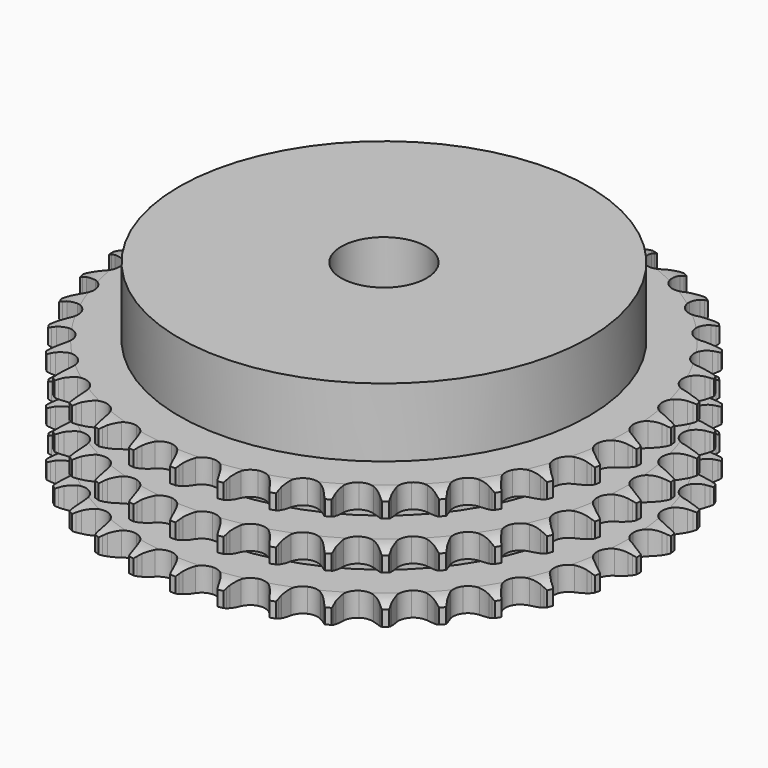
from build123d import *

# Parameters (mm, degrees)
PAD_DEPTH         = 34.9
SKETCH001_R       = 60
PAD001_DEPTH      = 55
SKETCH002_R       = 12.5
POCKET_DEPTH      = 0.001
POCKET_DEPTH_BACK = 55.001


with BuildPart() as part:
    # Sprocket → Pad (new body)
    with BuildSketch(Plane.XY):
        with BuildLine():
            ThreePointArc((-6.673059, 78.402771), (-5.93416, 77.380789), (-5.393637, 76.241379))
            Line((-5.393637, 76.241379), (-4.978563, 75.109289))
            ThreePointArc((-4.978563, 75.109289), (-4.321728, 73.651627), (-3.462685, 72.3032))
            ThreePointArc((-3.462685, 72.3032), (-1.937803, 71.022139), (0, 70.562469))
            ThreePointArc((0, 70.562469), (1.937803, 71.022139), (3.462685, 72.3032))
            ThreePointArc((3.462685, 72.3032), (4.321728, 73.651627), (4.978563, 75.109289))
            Line((4.978563, 75.109289), (5.393637, 76.241379))
            ThreePointArc((5.393637, 76.241379), (5.93416, 77.380789), (6.673059, 78.402771))
            ThreePointArc((6.673059, 78.402771), (7.228614, 77.270614), (7.568801, 76.056245))
            Line((7.568801, 76.056245), (7.78658, 74.870292))
            ThreePointArc((7.78658, 74.870292), (8.187622, 73.322591), (8.806423, 71.848381))
            ThreePointArc((8.806423, 71.848381), (10.09287, 70.328041), (11.925115, 69.547492))
            ThreePointArc((11.925115, 69.547492), (13.91273, 69.67306), (15.632177, 70.677987))
            Line((15.632177, 70.677987), (17.600483, 73.187529))
            ThreePointArc((17.600483, 73.187529), (17.886516, 73.718501), (18.20091, 74.233187))
            ThreePointArc((18.20091, 74.233187), (18.926219, 75.264859), (19.827206, 76.147266))
            ThreePointArc((19.827206, 76.147266), (20.183434, 74.937505), (20.313499, 73.683112))
            Line((20.313499, 73.683112), (20.327718, 72.477412))
            ThreePointArc((20.327718, 72.477412), (20.461428, 70.884198), (20.822186, 69.326614))
            ThreePointArc((20.822186, 69.326614), (21.83319, 67.610733), (23.507167, 66.531761))
            ThreePointArc((23.507167, 66.531761), (25.487412, 66.319614), (27.35196, 67.019498))
            Line((27.35196, 67.019498), (29.716068, 69.160297))
            ThreePointArc((29.716068, 69.160297), (30.087722, 69.635291), (30.484576, 70.089442))
            ThreePointArc((30.484576, 70.089442), (31.373806, 70.983696), (32.41096, 71.701143))
            ThreePointArc((32.41096, 71.701143), (32.557614, 70.448581), (32.473814, 69.190249))
            Line((32.473814, 69.190249), (32.284064, 67.99949))
            ThreePointArc((32.284064, 67.99949), (32.146597, 66.406595), (32.238932, 64.810448))
            ThreePointArc((32.238932, 64.810448), (32.945409, 62.948387), (34.412959, 61.602032))
            ThreePointArc((34.412959, 61.602032), (36.328868, 61.058273), (38.284878, 61.43298))
            Line((38.284878, 61.43298), (40.976777, 63.143449))
            ThreePointArc((40.976777, 63.143449), (41.423359, 63.548801), (41.891256, 63.929351))
            ThreePointArc((41.891256, 63.929351), (42.918825, 64.660461), (44.06231, 65.192308))
            ThreePointArc((44.06231, 65.192308), (43.99517, 63.932978), (43.699917, 62.706909))
            Line((43.699917, 62.706909), (43.311657, 61.565345))
            ThreePointArc((43.311657, 61.565345), (42.906966, 60.018595), (42.728223, 58.429802))
            ThreePointArc((42.728223, 58.429802), (43.109848, 56.475131), (44.328754, 54.900124))
            ThreePointArc((44.328754, 54.900124), (46.125209, 54.040397), (48.116408, 54.079147))
            Line((48.116408, 54.079147), (51.058658, 55.310079))
            ThreePointArc((51.058658, 55.310079), (51.567321, 55.634128), (52.092801, 55.930128))
            ThreePointArc((52.092801, 55.930128), (53.229148, 56.477062), (54.446067, 56.80801))
            ThreePointArc((54.446067, 56.80801), (54.167066, 55.578141), (53.668852, 54.419606))
            Line((53.668852, 54.419606), (53.093252, 53.360078))
            ThreePointArc((53.093252, 53.360078), (52.43298, 51.90397), (51.988301, 50.368238))
            ThreePointArc((51.988301, 50.368238), (52.034095, 48.377188), (52.969291, 46.61884))
            ThreePointArc((52.969291, 46.61884), (54.594611, 45.467877), (56.563718, 45.169555))
            Line((56.563718, 45.169555), (59.671674, 45.885539))
            ThreePointArc((59.671674, 45.885539), (60.227785, 46.118962), (60.795731, 46.321898))
            ThreePointArc((60.795731, 46.321898), (62.008165, 46.668922), (63.263511, 46.789448))
            ThreePointArc((63.263511, 46.789448), (62.780673, 45.624421), (62.093833, 44.566749))
            Line((62.093833, 44.566749), (61.347451, 43.619739))
            ThreePointArc((61.347451, 43.619739), (60.450593, 42.296162), (59.75277, 40.857671))
            ThreePointArc((59.75277, 40.857671), (59.461417, 38.887521), (60.085999, 36.996417))
            ThreePointArc((60.085999, 36.996417), (61.493426, 35.587329), (63.383792, 34.960517))
            Line((63.383792, 34.960517), (66.568045, 35.140956))
            ThreePointArc((66.568045, 35.140956), (67.155606, 35.277038), (67.749679, 35.381071))
            ThreePointArc((67.749679, 35.381071), (69.00332, 35.518201), (70.260978, 35.42484))
            ThreePointArc((70.260978, 35.42484), (69.588195, 34.35817), (68.732487, 33.431788))
            Line((68.732487, 33.431788), (67.836796, 32.624539))
            ThreePointArc((67.836796, 32.624539), (66.729152, 31.47157), (65.798261, 30.171703))
            ThreePointArc((65.798261, 30.171703), (65.178141, 28.279131), (65.474141, 26.309674))
            ThreePointArc((65.474141, 26.309674), (66.623186, 24.682998), (68.38043, 23.745729))
            Line((68.38043, 23.745729), (71.549375, 23.385431))
            ThreePointArc((71.549375, 23.385431), (72.151482, 23.420257), (72.754591, 23.422396))
            ThreePointArc((72.754591, 23.422396), (74.013375, 23.345686), (75.237164, 23.041123))
            ThreePointArc((75.237164, 23.041123), (74.393791, 22.103497), (73.393832, 21.335056))
            Line((73.393832, 21.335056), (72.374599, 20.690791))
            ThreePointArc((72.374599, 20.690791), (71.088036, 19.741599), (69.950856, 18.617751))
            ThreePointArc((69.950856, 18.617751), (69.019809, 16.857202), (68.978712, 14.86605))
            ThreePointArc((68.978712, 14.86605), (69.836319, 13.068583), (71.409888, 11.84782))
            Line((71.409888, 11.84782), (74.472359, 10.95715))
            ThreePointArc((74.472359, 10.95715), (75.071691, 10.889719), (75.666487, 10.7899))
            ThreePointArc((75.666487, 10.7899), (76.8942, 10.501559), (78.048915, 9.994555))
            ThreePointArc((78.048915, 9.994555), (77.059213, 9.212947), (75.943771, 8.624553))
            Line((75.943771, 8.624553), (74.830317, 8.161806))
            ThreePointArc((74.830317, 8.161806), (73.401845, 7.443697), (72.091092, 6.528199))
            ThreePointArc((72.091092, 6.528199), (70.875903, 4.950322), (70.49889, 2.994756))
            ThreePointArc((70.49889, 2.994756), (71.040389, 1.078208), (72.385013, -0.39093))
            Line((72.385013, -0.39093), (75.252909, -1.786349))
            ThreePointArc((75.252909, -1.786349), (75.832225, -1.954097), (76.401595, -2.153001))
            ThreePointArc((76.401595, -2.153001), (77.562919, -2.644679), (78.61534, -3.339539))
            ThreePointArc((78.61534, -3.339539), (77.507782, -3.942643), (76.308945, -4.334063))
            Line((76.308945, -4.334063), (75.133303, -4.601979))
            ThreePointArc((75.133303, -4.601979), (73.604017, -5.068346), (72.157398, -5.749156))
            ThreePointArc((72.157398, -5.749156), (70.693027, -7.098969), (69.990944, -8.962691))
            ThreePointArc((69.990944, -8.962691), (70.200755, -10.943185), (71.277753, -12.618433))
            Line((71.277753, -12.618433), (73.86857, -14.478457))
            ThreePointArc((73.86857, -14.478457), (74.411203, -14.741698), (74.938769, -15.033964))
            ThreePointArc((74.938769, -15.033964), (76.000294, -15.714835), (76.920145, -16.577559))
            ThreePointArc((76.920145, -16.577559), (75.726593, -16.984811), (74.47885, -17.167996))
            Line((74.47885, -17.167996), (73.27484, -17.233374))
            ThreePointArc((73.27484, -17.233374), (71.688736, -17.434581), (70.147867, -17.861119))
            ThreePointArc((70.147867, -17.861119), (68.47644, -18.944037), (67.469486, -20.662298))
            ThreePointArc((67.469486, -20.662298), (67.341574, -22.649763), (68.119961, -24.482927))
            Line((68.119961, -24.482927), (70.359167, -26.754047))
            ThreePointArc((70.359167, -26.754047), (70.849507, -27.105206), (71.320091, -27.482428))
            ThreePointArc((71.320091, -27.482428), (72.251279, -28.332903), (73.012098, -29.338674))
            ThreePointArc((73.012098, -29.338674), (71.766888, -29.538356), (70.506134, -29.508037))
            Line((70.506134, -29.508037), (69.308394, -29.368995))
            ThreePointArc((69.308394, -29.368995), (67.7111, -29.299256), (66.12031, -29.459251))
            ThreePointArc((66.12031, -29.459251), (64.289911, -30.244118), (63.007053, -31.767488))
            ThreePointArc((63.007053, -31.767488), (62.545098, -33.704748), (63.002483, -35.643092))
            Line((63.002483, -35.643092), (64.825659, -38.259971))
            ThreePointArc((64.825659, -38.259971), (65.249599, -38.688947), (65.649663, -39.140272))
            ThreePointArc((65.649663, -39.140272), (66.423726, -40.135886), (67.003625, -41.255768))
            ThreePointArc((67.003625, -41.255768), (65.742581, -41.242137), (64.505085, -40.999185))
            Line((64.505085, -40.999185), (63.348072, -40.659725))
            ThreePointArc((63.348072, -40.659725), (61.78554, -40.321044), (60.190592, -40.209893))
            ThreePointArc((60.190592, -40.209893), (58.253878, -40.674132), (56.732023, -41.958785))
            ThreePointArc((56.732023, -41.958785), (55.949314, -43.790109), (56.072538, -45.77787))
            Line((56.072538, -45.77787), (57.427234, -48.665226))
            ThreePointArc((57.427234, -48.665226), (57.772579, -49.159678), (58.090615, -49.672122))
            ThreePointArc((58.090615, -49.672122), (58.685284, -50.784232), (59.067581, -51.986009))
            ThreePointArc((59.067581, -51.986009), (57.826978, -51.759456), (56.648343, -51.310861))
            Line((56.648343, -51.310861), (55.565341, -50.780747))
            ThreePointArc((55.565341, -50.780747), (54.082521, -50.18287), (52.529301, -49.80377))
            ThreePointArc((52.529301, -49.80377), (50.541988, -49.934025), (48.824915, -50.943005))
            ThreePointArc((48.824915, -50.943005), (47.74397, -52.615708), (47.529488, -54.595702))
            Line((47.529488, -54.595702), (48.376732, -57.67047))
            ThreePointArc((48.376732, -57.67047), (48.633547, -58.216174), (48.860405, -58.774995))
            ThreePointArc((48.860405, -58.774995), (49.258572, -59.971608), (49.432269, -61.220707))
            ThreePointArc((49.432269, -61.220707), (48.2478, -60.78775), (47.16193, -60.146418))
            Line((47.16193, -60.146418), (46.184096, -59.440901))
            ThreePointArc((46.184096, -59.440901), (44.823647, -58.601025), (43.356836, -57.964882))
            ThreePointArc((43.356836, -57.964882), (41.376096, -57.757407), (39.513204, -58.461687))
            ThreePointArc((39.513204, -58.461687), (38.165119, -59.927649), (37.619101, -61.842915))
            Line((37.619101, -61.842915), (37.93452, -65.016641))
            ThreePointArc((37.93452, -65.016641), (38.095417, -65.597896), (38.22457, -66.187019))
            ThreePointArc((38.22457, -66.187019), (38.414782, -67.43371), (38.374881, -68.694197))
            ThreePointArc((38.374881, -68.694197), (37.280619, -68.067291), (36.318755, -67.251671))
            Line((36.318755, -67.251671), (35.474219, -66.391048))
            ThreePointArc((35.474219, -66.391048), (34.275279, -65.333336), (32.937075, -64.458451))
            ThreePointArc((32.937075, -64.458451), (31.01989, -63.919213), (29.064769, -64.298532))
            ThreePointArc((29.064769, -64.298532), (27.488326, -65.51558), (26.626481, -67.31102))
            Line((26.626481, -67.31102), (26.401001, -70.492401))
            ThreePointArc((26.401001, -70.492401), (26.461351, -71.092487), (26.489084, -71.694962))
            ThreePointArc((26.489084, -71.694962), (26.465868, -72.955867), (26.213518, -74.19148))
            ThreePointArc((26.213518, -74.19148), (25.240943, -73.388661), (24.430755, -72.422216))
            Line((24.430755, -72.422216), (23.743813, -71.431245))
            ThreePointArc((23.743813, -71.431245), (22.740873, -70.186126), (21.569774, -69.097668))
            ThreePointArc((21.569774, -69.097668), (19.771297, -68.24218), (17.780194, -68.285626))
            ThreePointArc((17.780194, -68.285626), (16.020745, -69.218748), (14.867866, -70.842709))
            Line((14.867866, -70.842709), (14.107973, -73.940222))
            ThreePointArc((14.107973, -73.940222), (14.06604, -74.541876), (13.991555, -75.140373))
            ThreePointArc((13.991555, -75.140373), (13.755579, -76.379217), (13.298039, -77.554409))
            ThreePointArc((13.298039, -77.554409), (12.475131, -76.598772), (11.839927, -75.509306))
            Line((11.839927, -75.509306), (11.330341, -74.416495))
            ThreePointArc((11.330341, -74.416495), (10.552253, -73.019788), (9.58195, -71.74907))
            ThreePointArc((9.58195, -71.74907), (7.953921, -70.601944), (5.984115, -70.308267))
            ThreePointArc((5.984115, -70.308267), (4.092276, -70.930619), (2.681529, -72.336383))
            Line((2.681529, -72.336383), (1.409085, -75.260919))
            ThreePointArc((1.409085, -75.260919), (1.266074, -75.846831), (1.091514, -76.424131))
            ThreePointArc((1.091514, -76.424131), (0.649567, -77.605276), (0, -78.686239))
            ThreePointArc((0, -78.686239), (-0.649567, -77.605276), (-1.091514, -76.424131))
            Line((-1.091514, -76.424131), (-1.409085, -75.260919))
            ThreePointArc((-1.409085, -75.260919), (-1.939936, -73.752804), (-2.681529, -72.336383))
            ThreePointArc((-2.681529, -72.336383), (-4.092276, -70.930619), (-5.984115, -70.308267))
            ThreePointArc((-5.984115, -70.308267), (-7.953921, -70.601944), (-9.58195, -71.74907))
            Line((-9.58195, -71.74907), (-11.330341, -74.416495))
            ThreePointArc((-11.330341, -74.416495), (-11.570314, -74.969811), (-11.839927, -75.509306))
            ThreePointArc((-11.839927, -75.509306), (-12.475131, -76.598772), (-13.298039, -77.554409))
            ThreePointArc((-13.298039, -77.554409), (-13.755579, -76.379217), (-13.991555, -75.140373))
            Line((-13.991555, -75.140373), (-14.107973, -73.940222))
            ThreePointArc((-14.107973, -73.940222), (-14.376316, -72.364087), (-14.867866, -70.842709))
            ThreePointArc((-14.867866, -70.842709), (-16.020745, -69.218748), (-17.780194, -68.285626))
            ThreePointArc((-17.780194, -68.285626), (-19.771297, -68.24218), (-21.569774, -69.097668))
            Line((-21.569774, -69.097668), (-23.743813, -71.431245))
            ThreePointArc((-23.743813, -71.431245), (-24.073845, -71.936046), (-24.430755, -72.422216))
            ThreePointArc((-24.430755, -72.422216), (-25.240943, -73.388661), (-26.213518, -74.19148))
            ThreePointArc((-26.213518, -74.19148), (-26.465868, -72.955867), (-26.489084, -71.694962))
            Line((-26.489084, -71.694962), (-26.401001, -70.492401))
            ThreePointArc((-26.401001, -70.492401), (-26.399116, -68.893586), (-26.626481, -67.31102))
            ThreePointArc((-26.626481, -67.31102), (-27.488326, -65.51558), (-29.064769, -64.298532))
            ThreePointArc((-29.064769, -64.298532), (-31.01989, -63.919213), (-32.937075, -64.458451))
            Line((-32.937075, -64.458451), (-35.474219, -66.391048))
            ThreePointArc((-35.474219, -66.391048), (-35.884816, -66.832812), (-36.318755, -67.251671))
            ThreePointArc((-36.318755, -67.251671), (-37.280619, -68.067291), (-38.374881, -68.694197))
            ThreePointArc((-38.374881, -68.694197), (-38.414782, -67.43371), (-38.22457, -66.187019))
            Line((-38.22457, -66.187019), (-37.93452, -65.016641))
            ThreePointArc((-37.93452, -65.016641), (-37.662461, -63.441142), (-37.619101, -61.842915))
            ThreePointArc((-37.619101, -61.842915), (-38.165119, -59.927649), (-39.513204, -58.461687))
            ThreePointArc((-39.513204, -58.461687), (-41.376096, -57.757407), (-43.356836, -57.964882))
            Line((-43.356836, -57.964882), (-46.184096, -59.440901))
            ThreePointArc((-46.184096, -59.440901), (-46.663445, -59.80692), (-47.16193, -60.146418))
            ThreePointArc((-47.16193, -60.146418), (-48.2478, -60.78775), (-49.432269, -61.220707))
            ThreePointArc((-49.432269, -61.220707), (-49.258572, -59.971608), (-48.860405, -58.774995))
            Line((-48.860405, -58.774995), (-48.376732, -57.67047))
            ThreePointArc((-48.376732, -57.67047), (-47.842326, -56.163612), (-47.529488, -54.595702))
            ThreePointArc((-47.529488, -54.595702), (-47.74397, -52.615708), (-48.824915, -50.943005))
            ThreePointArc((-48.824915, -50.943005), (-50.541988, -49.934025), (-52.529301, -49.80377))
            Line((-52.529301, -49.80377), (-55.565341, -50.780747))
            ThreePointArc((-55.565341, -50.780747), (-56.099653, -51.060491), (-56.648343, -51.310861))
            ThreePointArc((-56.648343, -51.310861), (-57.826978, -51.759456), (-59.067581, -51.986009))
            ThreePointArc((-59.067581, -51.986009), (-58.685284, -50.784232), (-58.090615, -49.672122))
            Line((-58.090615, -49.672122), (-57.427234, -48.665226))
            ThreePointArc((-57.427234, -48.665226), (-56.645854, -47.270358), (-56.072538, -45.77787))
            ThreePointArc((-56.072538, -45.77787), (-55.949314, -43.790109), (-56.732023, -41.958785))
            ThreePointArc((-56.732023, -41.958785), (-58.253878, -40.674132), (-60.190592, -40.209893))
            Line((-60.190592, -40.209893), (-63.348072, -40.659725))
            ThreePointArc((-63.348072, -40.659725), (-63.921975, -40.845145), (-64.505085, -40.999185))
            ThreePointArc((-64.505085, -40.999185), (-65.742581, -41.242137), (-67.003625, -41.255768))
            ThreePointArc((-67.003625, -41.255768), (-66.423726, -40.135886), (-65.649663, -39.140272))
            Line((-65.649663, -39.140272), (-64.825659, -38.259971))
            ThreePointArc((-64.825659, -38.259971), (-63.819784, -37.017221), (-63.002483, -35.643092))
            ThreePointArc((-63.002483, -35.643092), (-62.545098, -33.704748), (-63.007053, -31.767488))
            ThreePointArc((-63.007053, -31.767488), (-64.289911, -30.244118), (-66.12031, -29.459251))
            Line((-66.12031, -29.459251), (-69.308394, -29.368995))
            ThreePointArc((-69.308394, -29.368995), (-69.905379, -29.454759), (-70.506134, -29.508037))
            ThreePointArc((-70.506134, -29.508037), (-71.766888, -29.538356), (-73.012098, -29.338674))
            ThreePointArc((-73.012098, -29.338674), (-72.251279, -28.332903), (-71.320091, -27.482428))
            Line((-71.320091, -27.482428), (-70.359167, -26.754047))
            ThreePointArc((-70.359167, -26.754047), (-69.157736, -25.699166), (-68.119961, -24.482927))
            ThreePointArc((-68.119961, -24.482927), (-67.341574, -22.649763), (-67.469486, -20.662298))
            ThreePointArc((-67.469486, -20.662298), (-68.47644, -18.944037), (-70.147867, -17.861119))
            Line((-70.147867, -17.861119), (-73.27484, -17.233374))
            ThreePointArc((-73.27484, -17.233374), (-73.877732, -17.217013), (-74.47885, -17.167996))
            ThreePointArc((-74.47885, -17.167996), (-75.726593, -16.984811), (-76.920145, -16.577559))
            ThreePointArc((-76.920145, -16.577559), (-76.000294, -15.714835), (-74.938769, -15.033964))
            Line((-74.938769, -15.033964), (-73.86857, -14.478457))
            ThreePointArc((-73.86857, -14.478457), (-72.506145, -13.641793), (-71.277753, -12.618433))
            ThreePointArc((-71.277753, -12.618433), (-70.200755, -10.943185), (-69.990944, -8.962691))
            ThreePointArc((-69.990944, -8.962691), (-70.693027, -7.098969), (-72.157398, -5.749156))
            Line((-72.157398, -5.749156), (-75.133303, -4.601979))
            ThreePointArc((-75.133303, -4.601979), (-75.724757, -4.483964), (-76.308945, -4.334063))
            ThreePointArc((-76.308945, -4.334063), (-77.507782, -3.942643), (-78.61534, -3.339539))
            ThreePointArc((-78.61534, -3.339539), (-77.562919, -2.644679), (-76.401595, -2.153001))
            Line((-76.401595, -2.153001), (-75.252909, -1.786349))
            ThreePointArc((-75.252909, -1.786349), (-73.768684, -1.19197), (-72.385013, -0.39093))
            ThreePointArc((-72.385013, -0.39093), (-71.040389, 1.078208), (-70.49889, 2.994756))
            ThreePointArc((-70.49889, 2.994756), (-70.875903, 4.950322), (-72.091092, 6.528199))
            Line((-72.091092, 6.528199), (-74.830317, 8.161806))
            ThreePointArc((-74.830317, 8.161806), (-75.393319, 8.37808), (-75.943771, 8.624553))
            ThreePointArc((-75.943771, 8.624553), (-77.059213, 9.212947), (-78.048915, 9.994555))
            ThreePointArc((-78.048915, 9.994555), (-76.8942, 10.501559), (-75.666487, 10.7899))
            Line((-75.666487, 10.7899), (-74.472359, 10.95715))
            ThreePointArc((-74.472359, 10.95715), (-72.909032, 11.292143), (-71.409888, 11.84782))
            ThreePointArc((-71.409888, 11.84782), (-69.836319, 13.068583), (-68.978712, 14.86605))
            ThreePointArc((-68.978712, 14.86605), (-69.019809, 16.857202), (-69.950856, 18.617751))
            Line((-69.950856, 18.617751), (-72.374599, 20.690791))
            ThreePointArc((-72.374599, 20.690791), (-72.892953, 20.999101), (-73.393832, 21.335056))
            ThreePointArc((-73.393832, 21.335056), (-74.393791, 22.103497), (-75.237164, 23.041123))
            ThreePointArc((-75.237164, 23.041123), (-74.013375, 23.345686), (-72.754591, 23.422396))
            Line((-72.754591, 23.422396), (-71.549375, 23.385431))
            ThreePointArc((-71.549375, 23.385431), (-69.951921, 23.451403), (-68.38043, 23.745729))
            ThreePointArc((-68.38043, 23.745729), (-66.623186, 24.682998), (-65.474141, 26.309674))
            ThreePointArc((-65.474141, 26.309674), (-65.178141, 28.279131), (-65.798261, 30.171703))
            Line((-65.798261, 30.171703), (-67.836796, 32.624539))
            ThreePointArc((-67.836796, 32.624539), (-68.295588, 33.016017), (-68.732487, 33.431788))
            ThreePointArc((-68.732487, 33.431788), (-69.588195, 34.35817), (-70.260978, 35.42484))
            ThreePointArc((-70.260978, 35.42484), (-69.00332, 35.518201), (-67.749679, 35.381071))
            Line((-67.749679, 35.381071), (-66.568045, 35.140956))
            ThreePointArc((-66.568045, 35.140956), (-64.98242, 34.936007), (-63.383792, 34.960517))
            ThreePointArc((-63.383792, 34.960517), (-61.493426, 35.587329), (-60.085999, 36.996417))
            ThreePointArc((-60.085999, 36.996417), (-59.461417, 38.887521), (-59.75277, 40.857671))
            Line((-59.75277, 40.857671), (-61.347451, 43.619739))
            ThreePointArc((-61.347451, 43.619739), (-61.733485, 44.083122), (-62.093833, 44.566749))
            ThreePointArc((-62.093833, 44.566749), (-62.780673, 45.624421), (-63.263511, 46.789448))
            ThreePointArc((-63.263511, 46.789448), (-62.008165, 46.668922), (-60.795731, 46.321898))
            Line((-60.795731, 46.321898), (-59.671674, 45.885539))
            ThreePointArc((-59.671674, 45.885539), (-58.143493, 45.415567), (-56.563718, 45.169555))
            ThreePointArc((-56.563718, 45.169555), (-54.594611, 45.467877), (-52.969291, 46.61884))
            ThreePointArc((-52.969291, 46.61884), (-52.034095, 48.377188), (-51.988301, 50.368238))
            Line((-51.988301, 50.368238), (-53.093252, 53.360078))
            ThreePointArc((-53.093252, 53.360078), (-53.395421, 53.882036), (-53.668852, 54.419606))
            ThreePointArc((-53.668852, 54.419606), (-54.167066, 55.578141), (-54.446067, 56.80801))
            ThreePointArc((-54.446067, 56.80801), (-53.229148, 56.477062), (-52.092801, 55.930128))
            Line((-52.092801, 55.930128), (-51.058658, 55.310079))
            ThreePointArc((-51.058658, 55.310079), (-49.631884, 54.588604), (-48.116408, 54.079147))
            ThreePointArc((-48.116408, 54.079147), (-46.125209, 54.040397), (-44.328754, 54.900124))
            ThreePointArc((-44.328754, 54.900124), (-43.109848, 56.475131), (-42.728223, 58.429802))
            Line((-42.728223, 58.429802), (-43.311657, 61.565345))
            ThreePointArc((-43.311657, 61.565345), (-43.521268, 62.130862), (-43.699917, 62.706909))
            ThreePointArc((-43.699917, 62.706909), (-43.99517, 63.932978), (-44.06231, 65.192308))
            ThreePointArc((-44.06231, 65.192308), (-42.918825, 64.660461), (-41.891256, 63.929351))
            Line((-41.891256, 63.929351), (-40.976777, 63.143449))
            ThreePointArc((-40.976777, 63.143449), (-39.692455, 62.191225), (-38.284878, 61.43298))
            ThreePointArc((-38.284878, 61.43298), (-36.328868, 61.058273), (-34.412959, 61.602032))
            ThreePointArc((-34.412959, 61.602032), (-32.945409, 62.948387), (-32.238932, 64.810448))
            Line((-32.238932, 64.810448), (-32.284064, 67.99949))
            ThreePointArc((-32.284064, 67.99949), (-32.395087, 68.592296), (-32.473814, 69.190249))
            ThreePointArc((-32.473814, 69.190249), (-32.557614, 70.448581), (-32.41096, 71.701143))
            ThreePointArc((-32.41096, 71.701143), (-31.373806, 70.983696), (-30.484576, 70.089442))
            Line((-30.484576, 70.089442), (-29.716068, 69.160297))
            ThreePointArc((-29.716068, 69.160297), (-28.611148, 68.004719), (-27.35196, 67.019498))
            ThreePointArc((-27.35196, 67.019498), (-25.487412, 66.319614), (-23.507167, 66.531761))
            ThreePointArc((-23.507167, 66.531761), (-21.83319, 67.610733), (-20.822186, 69.326614))
            Line((-20.822186, 69.326614), (-20.327718, 72.477412))
            ThreePointArc((-20.327718, 72.477412), (-20.336959, 73.080455), (-20.313499, 73.683112))
            ThreePointArc((-20.313499, 73.683112), (-20.183434, 74.937505), (-19.827206, 76.147266))
            ThreePointArc((-19.827206, 76.147266), (-18.926219, 75.264859), (-18.20091, 74.233187))
            Line((-18.20091, 74.233187), (-17.600483, 73.187529))
            ThreePointArc((-17.600483, 73.187529), (-16.706749, 71.86184), (-15.632177, 70.677987))
            ThreePointArc((-15.632177, 70.677987), (-13.91273, 69.67306), (-11.925115, 69.547492))
            ThreePointArc((-11.925115, 69.547492), (-10.09287, 70.328041), (-8.806423, 71.848381))
            Line((-8.806423, 71.848381), (-7.78658, 74.870292))
            ThreePointArc((-7.78658, 74.870292), (-7.693774, 75.466222), (-7.568801, 76.056245))
            ThreePointArc((-7.568801, 76.056245), (-7.228614, 77.270614), (-6.673059, 78.402771))
        make_face()
    extrude(amount=PAD_DEPTH)

    # Sketch → Groove (revolve, cut)
    with BuildSketch(Plane.XZ):
        with BuildLine():
            ThreePointArc((71.633431, 0), (74.54032, 0.329167), (77.3, 1.3))
            Line((77.3, 1.3), (77.3, 5.7))
            ThreePointArc((77.3, 5.7), (74.54032, 6.670833), (71.633431, 7))
            Line((60, 7), (71.633431, 7))
            Line((60, 7), (60, 13.95))
            Line((60, 13.95), (71.633431, 13.95))
            ThreePointArc((71.633431, 13.95), (74.54032, 14.279167), (77.3, 15.25))
            Line((77.3, 19.65), (77.3, 15.25))
            ThreePointArc((77.3, 19.65), (74.54032, 20.620833), (71.633431, 20.95))
            Line((60, 20.95), (71.633431, 20.95))
            Line((60, 27.9), (60, 20.95))
            Line((71.633431, 27.9), (60, 27.9))
            ThreePointArc((71.633431, 27.9), (74.54032, 28.229167), (77.3, 29.2))
            Line((77.3, 29.2), (77.3, 33.6))
            ThreePointArc((77.3, 33.6), (74.54032, 34.570833), (71.633431, 34.9))
            Line((71.633431, 34.9), (87.3, 34.9))
            Line((87.3, 34.9), (87.3, 0))
            Line((71.633431, 0), (87.3, 0))
        make_face()
    revolve(axis=Axis((0, 0, 0), (0, 0, 1)), mode=Mode.SUBTRACT)

    # Sketch001 → Pad001 (join)
    with BuildSketch(Plane.XY):
        Circle(SKETCH001_R)
    extrude(amount=PAD001_DEPTH)

    # Sketch002 → Pocket (cut, two sides)
    with BuildSketch(Plane.XY) as pocket_sk:
        Circle(SKETCH002_R)
    extrude(amount=-POCKET_DEPTH, mode=Mode.SUBTRACT)
    extrude(pocket_sk.sketch, amount=POCKET_DEPTH_BACK, mode=Mode.SUBTRACT)


solid = part.part
